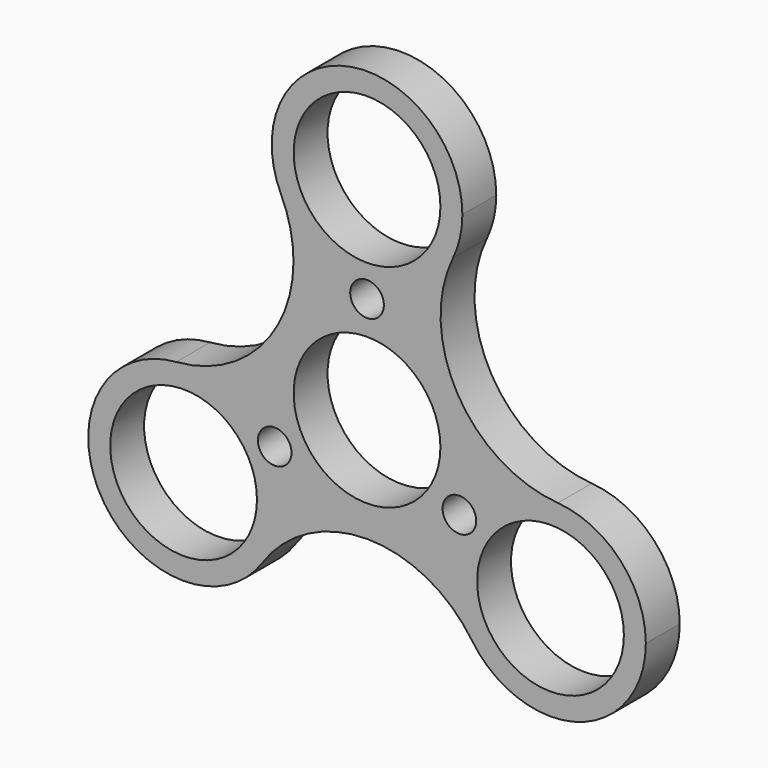
from build123d import *

# Parameters (mm, degrees)
F1_R     = 10.9982
F1_R_2   = 14.2875
F2_DEPTH = 6.35
F0_R     = 14.2875
F0_R_2   = 10.9982
F3_DEPTH = 6.35
F4_R     = 2.520905
F5_DEPTH = 6.351


with BuildPart() as f2:
    # F1 (on Front) → F2 (new body)
    with BuildSketch(Plane.XZ):
        with BuildLine():
            ThreePointArc((14.2875, 31.75), (-3.161339, 45.683363), (-12.888506, 25.58404))
            ThreePointArc((-12.888506, 25.58404), (0, 17.4625), (12.888506, 25.58404))
            ThreePointArc((12.888506, 25.58404), (13.933363, 28.588661), (14.2875, 31.75))
        make_face()
        with Locations((0, 31.75)):
            Circle(F1_R, mode=Mode.SUBTRACT)
        with BuildLine():
            ThreePointArc((41.783807, -15.875), (37.982283, -6.170519), (28.600682, -1.630246))
            ThreePointArc((28.600682, -1.630246), (15.122969, -8.73125), (15.712175, -23.953793))
            ThreePointArc((15.712175, -23.953793), (31.725188, -29.522315), (41.783807, -15.875))
        make_face()
        with Locations((27.496307, -15.875)):
            Circle(F1_R, mode=Mode.SUBTRACT)
        with BuildLine():
            ThreePointArc((-13.208807, -15.875), (-17.791826, -5.389023), (-28.600681, -1.630246))
            ThreePointArc((-28.600681, -1.630246), (-39.869645, -23.01875), (-15.712175, -23.953793))
            ThreePointArc((-15.712175, -23.953793), (-13.848991, -20.103882), (-13.208807, -15.875))
        make_face()
        with Locations((-27.496307, -15.875)):
            Circle(F1_R, mode=Mode.SUBTRACT)
        with BuildLine():
            ThreePointArc((-12.888506, 25.58404), (-11.495364, 21.577878), (-11.023181, 17.362759))
            ThreePointArc((-11.023181, 17.362759), (-16.091879, 4.423451), (-28.600681, -1.630246))
            ThreePointArc((-28.600681, -1.630246), (-17.791826, -5.389023), (-13.208807, -15.875))
            ThreePointArc((-13.208807, -15.875), (-13.848991, -20.103882), (-15.712175, -23.953793))
            ThreePointArc((-15.712175, -23.953793), (0, -15.675518), (15.712175, -23.953793))
            ThreePointArc((15.712175, -23.953793), (15.122969, -8.73125), (28.600682, -1.630246))
            ThreePointArc((28.600682, -1.630246), (13.575397, 7.837759), (12.888506, 25.58404))
            ThreePointArc((12.888506, 25.58404), (0, 17.4625), (-12.888506, 25.58404))
        make_face()
        Circle(F1_R_2, mode=Mode.SUBTRACT)
    extrude(amount=F2_DEPTH)

    # F0 (on Front) → F3 (join)
    with BuildSketch(Plane.XZ):
        Circle(F0_R)
        Circle(F0_R_2, mode=Mode.SUBTRACT)
    extrude(amount=F3_DEPTH)

    # F4 (on face) → F5 (cut, through all)
    with BuildSketch(Plane.XZ.offset(6.35)):
        with Locations((0, 15.981898)):
            Circle(F4_R)
        with Locations((-13.840729, -7.990949)):
            Circle(F4_R)
        with Locations((13.840729, -7.990949)):
            Circle(F4_R)
    extrude(amount=-F5_DEPTH, mode=Mode.SUBTRACT)


solid = f2.part
